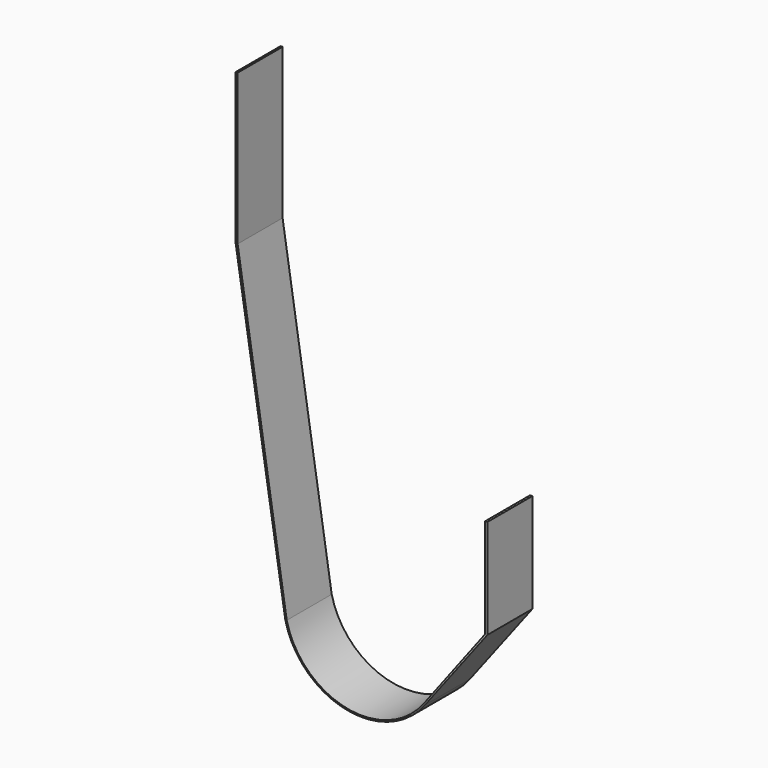
from build123d import *

# Parameters (mm, degrees)
F1_DEPTH = 30


with BuildPart() as f1:
    # F0 (on Front) → F1 (new body)
    with BuildSketch(Plane.XZ):
        with BuildLine():
            Line((68.875875, -1.517477), (67.677725, -1.517477))
            Line((67.677725, -1.517477), (67.677725, -54.569515))
            Line((67.677725, -54.569515), (34.905649, -97.882435))
            ThreePointArc((34.905649, -97.882435), (-6.525045, -113.380807), (-38.212673, -82.516649))
            Line((-38.212673, -82.516649), (-64.423058, 85.787979))
            Line((-64.423058, 85.787979), (-64.423058, 166.207043))
            Line((-64.423058, 166.207043), (-65.47806, 166.207043))
            Line((-65.47806, 166.207043), (-65.47806, 85.860369))
            Line((-65.47806, 85.860369), (-38.983307, -82.543885))
            ThreePointArc((-38.983307, -82.543885), (-6.811865, -114.100462), (35.448593, -98.452048))
            Line((35.448593, -98.452048), (68.875875, -54.569515))
            Line((68.875875, -54.569515), (68.875875, -1.517477))
        make_face()
    extrude(amount=F1_DEPTH)


solid = f1.part
